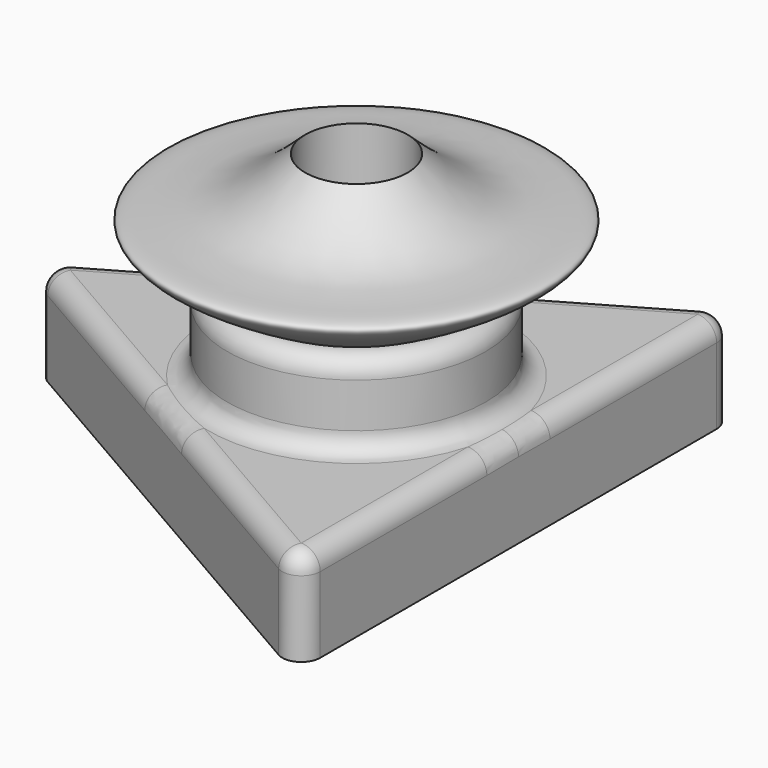
from build123d import *

# Parameters (mm, degrees)
F1_DEPTH = 25.4
F2_R     = 34.657222649
F3_DEPTH = 47.498
F4_R     = 5.08
F5_R     = 12.7
F6_DEPTH = 47.499
F7_R     = 5.08


with BuildPart() as f1:
    # F0 (on Top) → F1 (new body)
    with BuildSketch(Plane.XY):
        Polygon((43.3867163956, -75.1479971708), (43.3867163956, 75.1479971708), (-86.7734327912, 0), align=None)
    extrude(amount=F1_DEPTH)

    # F2 (on Top) → F3 (join)
    with BuildSketch(Plane.XY):
        Circle(F2_R)
    extrude(amount=F3_DEPTH)

    # F4
    f4_edges = [f1.edges().sort_by_distance(p)[0] for p in [
        (-34.657223, 0, 25.4),
        (-34.657223, 0, 47.498),
    ]]
    fillet(f4_edges, radius=F4_R)

    # F5 (on face) → F6 (cut, through all)
    with BuildSketch(Plane.XY.offset(47.498)):
        Circle(F5_R)
    extrude(amount=-F6_DEPTH, mode=Mode.SUBTRACT)

    # F7
    f7_edges = [f1.edges().sort_by_distance(p)[0] for p in [
        (43.386716, 0, 25.4),
        (-21.693358, -37.573999, 25.4),
        (-21.693358, 37.573999, 25.4),
        (43.386716, -75.147997, 12.7),
        (43.386716, 75.147997, 12.7),
        (-86.773433, 0, 12.7),
    ]]
    fillet(f7_edges, radius=F7_R)

    # F8 (on Right) → F9 (revolve)
    with BuildSketch(Plane.YZ):
        with BuildLine():
            Line((13.7427253649, 77.7795091271), (13.7427253649, 38.8897545636))
            add(Edge.make_bspline(
                [(13.7427253649, 77.7795091271), (19.7552349789, 72.2247905159), (30.7430265403, 62.0736067006), (63.7135258095, 65.9775971528), (32.8505351499, 49.2475903212), (13.7427253649, 38.8897545636)],
                knots=[0, 0, 0, 0, 0.3152034483, 0.5760306447, 1, 1, 1, 1], degree=3))
        make_face()
    revolve(axis=Axis((0, 0, 37.3068228364), (0, 0, 1)))


solid = f1.part
